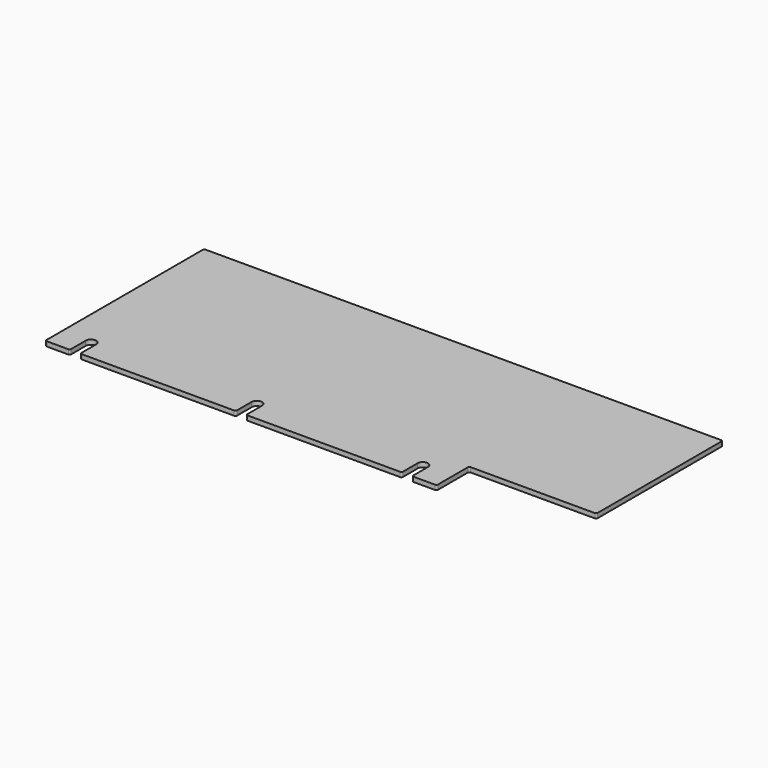
from build123d import *

# Parameters (mm, degrees)
PAD_DEPTH = 3


with BuildPart() as part:
    # Sketch → Pad (new body)
    with BuildSketch(Plane.XY):
        with BuildLine():
            Line((0, 126), (0, 1))
            ThreePointArc((0, 1), (0.292893, 0.292893), (1, 0))
            Line((1, 0), (14.748, 0))
            ThreePointArc((14.748, 0), (15.455107, 0.292893), (15.748, 1))
            Line((15.748, 12.7), (15.748, 1))
            ThreePointArc((22.352, 12.7), (19.05, 16.002), (15.748, 12.7))
            Line((22.352, 12.7), (22.352, 1))
            ThreePointArc((22.352, 1), (22.644893, 0.292893), (23.352, 0))
            Line((23.352, 0), (120.948, 0))
            ThreePointArc((120.948, 0), (121.655107, 0.292893), (121.948, 1))
            Line((121.948, 12.7), (121.948, 1))
            ThreePointArc((128.552, 12.7), (125.25, 16.002), (121.948, 12.7))
            Line((128.552, 12.7), (128.552, 1))
            ThreePointArc((128.552, 1), (128.844893, 0.292893), (129.552, 0))
            Line((129.552, 0), (227.148, 0))
            ThreePointArc((227.148, 0), (227.855107, 0.292893), (228.148, 1))
            Line((228.148, 12.7), (228.148, 1))
            ThreePointArc((234.752, 12.7), (231.45, 16.002), (228.148, 12.7))
            Line((234.752, 12.7), (234.752, 1))
            ThreePointArc((234.752, 1), (235.044893, 0.292893), (235.752, 0))
            Line((235.752, 0), (249.5, 0))
            ThreePointArc((249.5, 0), (250.207107, 0.292893), (250.5, 1))
            Line((250.5, 1), (250.5, 24.9))
            ThreePointArc((251.5, 25.9), (250.792893, 25.607107), (250.5, 24.9))
            Line((251.5, 25.9), (330.9999, 25.9))
            ThreePointArc((330.9999, 25.9), (331.707007, 26.192893), (331.9999, 26.9))
            Line((331.9999, 26.9), (331.9999, 126))
            ThreePointArc((331.9999, 126), (331.707007, 126.707107), (330.9999, 127))
            Line((330.9999, 127), (1, 127))
            ThreePointArc((1, 127), (0.292893, 126.707107), (0, 126))
        make_face()
    extrude(amount=PAD_DEPTH)


solid = part.part
